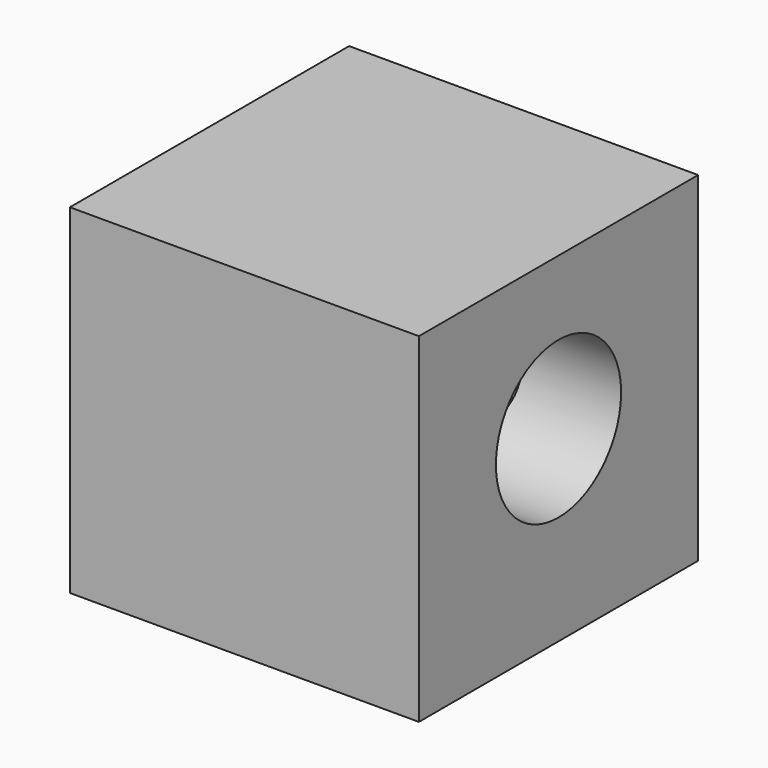
from build123d import *

# Parameters (mm, degrees)
F0_W     = 61.665386
F0_H     = 61.6654
F1_DEPTH = 60
F2_R     = 13.827744
F3_DEPTH = 25
F4_R     = 16.83794
F5_DEPTH = 50
F6_R     = 13.433153
F7_DEPTH = 50


with BuildPart() as f1:
    # F0 (on Top) → F1 (new body)
    with BuildSketch(Plane.XY):
        Rectangle(F0_W, F0_H)
    extrude(amount=F1_DEPTH)

    # F2 (on face) → F3 (cut)
    with BuildSketch(Plane.YZ.offset(30.832693)):
        with Locations((0, 33.078797)):
            Circle(F2_R)
    extrude(amount=-F3_DEPTH, mode=Mode.SUBTRACT)

    # F4 (on face) → F5 (cut)
    with BuildSketch(Plane(origin=(0, 30.8327, 0), x_dir=(-1, 0, 0), z_dir=(0, 1, 0))):
        with Locations((0, 30.424289)):
            Circle(F4_R)
    extrude(amount=F5_DEPTH, mode=Mode.SUBTRACT)

    # F6 (on face) → F7 (cut)
    with BuildSketch(Plane(origin=(0, 30.8327, 0), x_dir=(-1, 0, 0), z_dir=(0, 1, 0))):
        with Locations((0, 30.62848)):
            Circle(F6_R)
    extrude(amount=-F7_DEPTH, mode=Mode.SUBTRACT)


solid = f1.part
